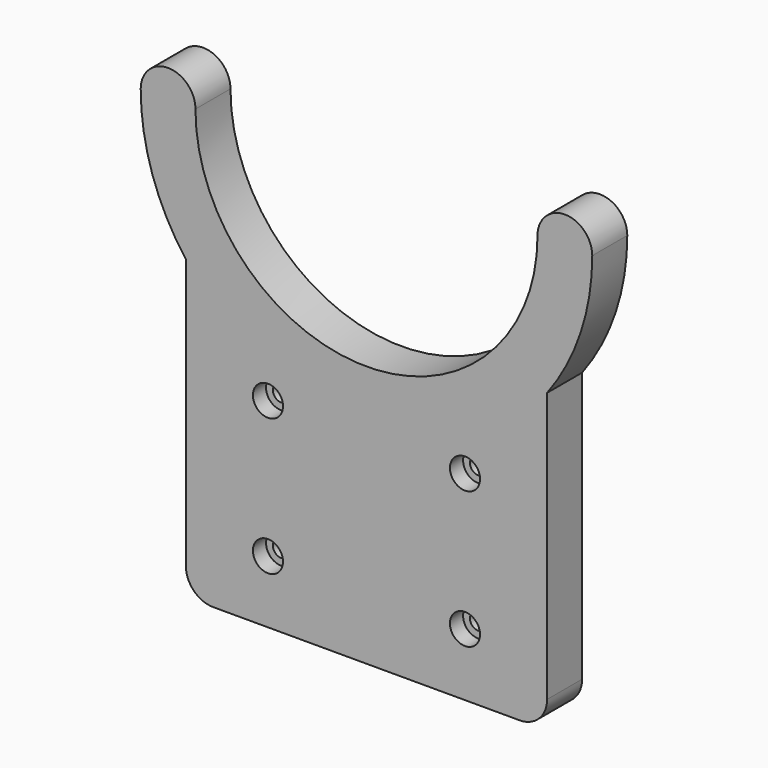
from build123d import *

# Parameters (mm, degrees)
F1_DEPTH = 8
F2_R     = 1.5
F3_DEPTH = 25
F4_R     = 2.75
F5_DEPTH = 3
F6_R     = 5


with BuildPart() as f1:
    # F0 (on Front) → F1 (new body)
    with BuildSketch(Plane.XZ):
        with BuildLine():
            Line((-33, -24.75), (-33, -79.052559))
            Line((-33, -79.052559), (33, -79.052559))
            Line((33, -79.052559), (33, -24.75))
            ThreePointArc((33, -24.75), (39.133186, -13.044395), (41.25, 0))
            ThreePointArc((41.25, 0), (36.25, 5), (31.25, 0))
            ThreePointArc((31.25, 0), (0, -31.25), (-31.25, 0))
            ThreePointArc((-31.25, 0), (-36.25, 5), (-41.25, 0))
            ThreePointArc((-41.25, 0), (-39.133186, -13.044395), (-33, -24.75))
        make_face()
    extrude(amount=F1_DEPTH)

    # F2 (on face) → F3 (cut)
    with BuildSketch(Plane.XZ.offset(8)):
        with Locations((18, -42.60355)):
            Circle(F2_R)
        with Locations((-18, -42.60355)):
            Circle(F2_R)
        with Locations((-18, -67.60355)):
            Circle(F2_R)
        with Locations((18, -67.60355)):
            Circle(F2_R)
    extrude(amount=-F3_DEPTH, mode=Mode.SUBTRACT)

    # F4 (on face) → F5 (cut)
    with BuildSketch(Plane.XZ.offset(8)):
        with Locations((-18, -42.60355)):
            Circle(F4_R)
        with Locations((18, -42.60355)):
            Circle(F4_R)
        with Locations((18, -67.60355)):
            Circle(F4_R)
        with Locations((-18, -67.60355)):
            Circle(F4_R)
    extrude(amount=-F5_DEPTH, mode=Mode.SUBTRACT)

    # F6
    f6_edges = [f1.edges().sort_by_distance(p)[0] for p in [
        (33, -4, -79.052559),
        (-33, -4, -79.052559),
    ]]
    fillet(f6_edges, radius=F6_R)


solid = f1.part
